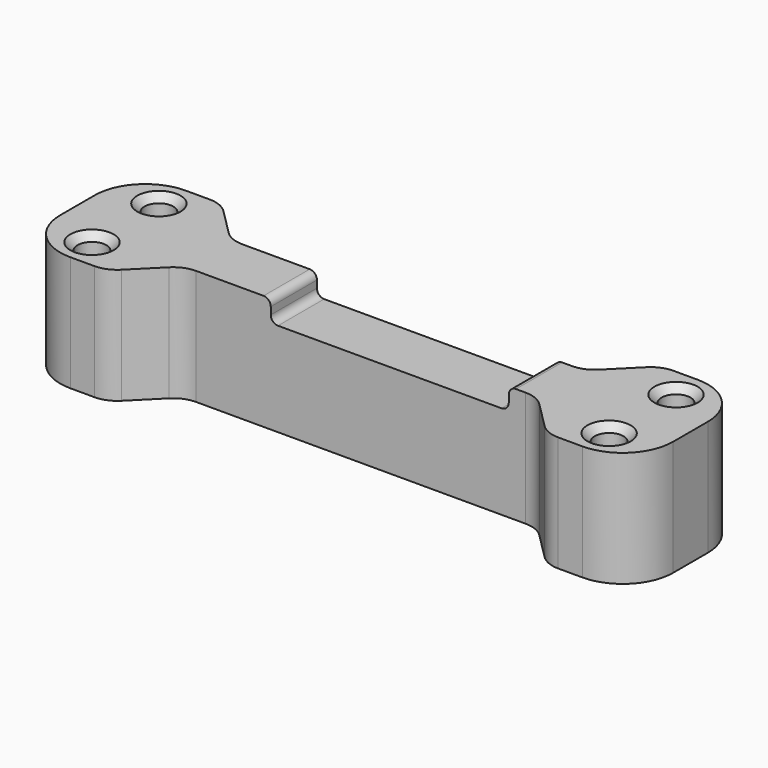
from build123d import *

# Parameters (mm, degrees)
SKETCH_R        = 2
PAD_DEPTH       = 16
CHAMFER_SIZE    = 1
CHAMFER001_SIZE = 1
POCKET_DEPTH    = 16.001
FILLET_R        = 4
FILLET001_R     = 4
FILLET002_R     = 4
FILLET003_R     = 4
FILLET004_R     = 4
SKETCH002_W     = 33
SKETCH002_H     = 10
POCKET001_DEPTH = 3
FILLET005_R     = 1
FILLET006_R     = 1
FILLET007_R     = 1


with BuildPart() as part:
    # Sketch → Pad (new body)
    with BuildSketch(Plane.XY):
        with BuildLine():
            ThreePointArc((7, 10), (2.050253, 7.949747), (0, 3))
            Line((0, -3), (0, 3))
            ThreePointArc((0, -3), (2.050253, -7.949747), (7, -10))
            Line((78, -10), (7, -10))
            ThreePointArc((78, -10), (82.949747, -7.949747), (85, -3))
            Line((85, 3), (85, -3))
            ThreePointArc((85, 3), (82.949747, 7.949747), (78, 10))
            Line((7, 10), (78, 10))
        make_face()
        with Locations((6.65, 5.8)):
            Circle(SKETCH_R, mode=Mode.SUBTRACT)
        with Locations((78.35, 5.8)):
            Circle(SKETCH_R, mode=Mode.SUBTRACT)
        with Locations((6.65, -5.8)):
            Circle(SKETCH_R, mode=Mode.SUBTRACT)
        with Locations((78.35, -5.8)):
            Circle(SKETCH_R, mode=Mode.SUBTRACT)
    extrude(amount=PAD_DEPTH)

    # Chamfer
    chamfer_edges = [part.edges().sort_by_distance(p)[0] for p in [
        (76.35, 5.8, 16),
        (76.35, -5.8, 16),
        (4.65, 5.8, 16),
        (4.65, -5.8, 16),
    ]]
    chamfer(chamfer_edges, length=CHAMFER_SIZE)

    # Chamfer001
    chamfer001_edges = [part.edges().sort_by_distance(p)[0] for p in [
        (4.65, -5.8, 0),
        (76.35, -5.8, 0),
        (76.35, 5.8, 0),
        (4.65, 5.8, 0),
    ]]
    chamfer(chamfer001_edges, length=CHAMFER001_SIZE)

    # Sketch001 (on Face5 of Chamfer001) → Pocket (cut, through all)
    with BuildSketch(Plane.XY.offset(16)):
        Polygon((12, 10), (18, 4), (67, 4), (73, 10), align=None)
        Polygon((12, -10), (73, -10), (67, -4), (18, -4), align=None)
    extrude(amount=-POCKET_DEPTH, mode=Mode.SUBTRACT)

    # Fillet
    fillet_edges = [part.edges().sort_by_distance(p)[0] for p in [
        (12, -10, 8),
    ]]
    fillet(fillet_edges, radius=FILLET_R)

    # Fillet001
    fillet001_edges = [part.edges().sort_by_distance(p)[0] for p in [
        (18, -4, 8),
    ]]
    fillet(fillet001_edges, radius=FILLET001_R)

    # Fillet002
    fillet002_edges = [part.edges().sort_by_distance(p)[0] for p in [
        (73, -10, 8),
        (67, -4, 8),
    ]]
    fillet(fillet002_edges, radius=FILLET002_R)

    # Fillet003
    fillet003_edges = [part.edges().sort_by_distance(p)[0] for p in [
        (12, 10, 8),
        (18, 4, 8),
    ]]
    fillet(fillet003_edges, radius=FILLET003_R)

    # Fillet004
    fillet004_edges = [part.edges().sort_by_distance(p)[0] for p in [
        (73, 10, 8),
        (67, 4, 8),
    ]]
    fillet(fillet004_edges, radius=FILLET004_R)

    # Sketch002 (on Face30 of Fillet004) → Pocket001 (cut)
    with BuildSketch(Plane.XY.offset(16)):
        with Locations((46.5, 0)):
            Rectangle(SKETCH002_W, SKETCH002_H)
    extrude(amount=-POCKET001_DEPTH, mode=Mode.SUBTRACT)

    # Fillet005
    fillet005_edges = [part.edges().sort_by_distance(p)[0] for p in [
        (30, 0, 16),
        (63, 0, 16),
    ]]
    fillet(fillet005_edges, radius=FILLET005_R)

    # Fillet006
    fillet006_edges = [part.edges().sort_by_distance(p)[0] for p in [
        (63, 0, 13),
    ]]
    fillet(fillet006_edges, radius=FILLET006_R)

    # Fillet007
    fillet007_edges = [part.edges().sort_by_distance(p)[0] for p in [
        (30, 0, 13),
    ]]
    fillet(fillet007_edges, radius=FILLET007_R)


solid = part.part
